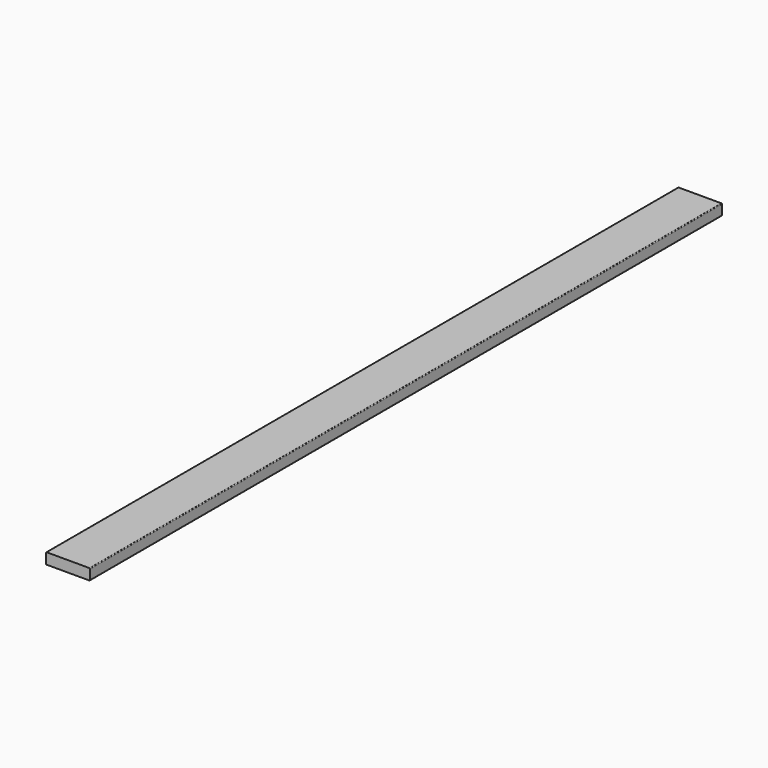
from build123d import *

# Parameters (mm, degrees)
F0_W     = 101.6
F0_H     = 1828.8
F1_DEPTH = 12.7
F2_R     = 1.5875


with BuildPart() as f1:
    # F0 (on Top) → F1 (new body, symmetric)
    with BuildSketch(Plane.XY):
        Rectangle(F0_W, F0_H)
    extrude(amount=F1_DEPTH, both=True)

    # F2
    f2_edges = [f1.edges().sort_by_distance(p)[0] for p in [
        (50.8, 0, 12.7),
        (-50.8, 0, 12.7),
        (50.8, 0, -12.7),
        (-50.8, 0, -12.7),
    ]]
    fillet(f2_edges, radius=F2_R)


solid = f1.part
